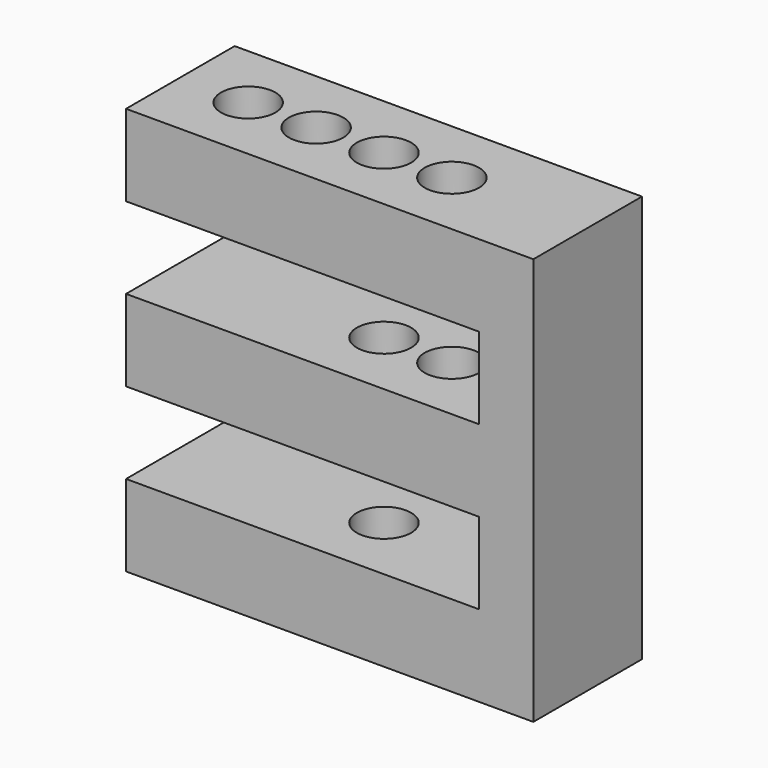
from build123d import *

# Parameters (mm, degrees)
F1_DEPTH = 50
F4_R     = 10
F5_DEPTH = 20
F6_DEPTH = 30
F7_DEPTH = 150.001
F8_DEPTH = 90


with BuildPart() as f1:
    # F0 (on Front) → F1 (new body)
    with BuildSketch(Plane.XZ):
        Polygon((150, 0), (0, 0), (0, -30), (130, -30), (130, -60), (0, -60), (0, -90), (130, -90), (130, -120), (0, -120), (0, -150), (150, -150), align=None)
    extrude(amount=-F1_DEPTH)

    # F4 (on Top) → F5 (cut)
    with BuildSketch(Plane.XY):
        with Locations((25, 25)):
            Circle(F4_R)
    extrude(amount=-F5_DEPTH, mode=Mode.SUBTRACT)

    # F4 (on Top) → F6 (cut, through all)
    with BuildSketch(Plane.XY):
        with Locations((50, 25)):
            Circle(F4_R)
    extrude(amount=-F6_DEPTH, mode=Mode.SUBTRACT)

    # F4 (on Top) → F7 (cut, through all)
    with BuildSketch(Plane.XY):
        with Locations((75, 25)):
            Circle(F4_R)
    extrude(amount=-F7_DEPTH, mode=Mode.SUBTRACT)

    # F4 (on Top) → F8 (cut, through all)
    with BuildSketch(Plane.XY):
        with Locations((100, 25)):
            Circle(F4_R)
    extrude(amount=-F8_DEPTH, mode=Mode.SUBTRACT)


solid = f1.part
